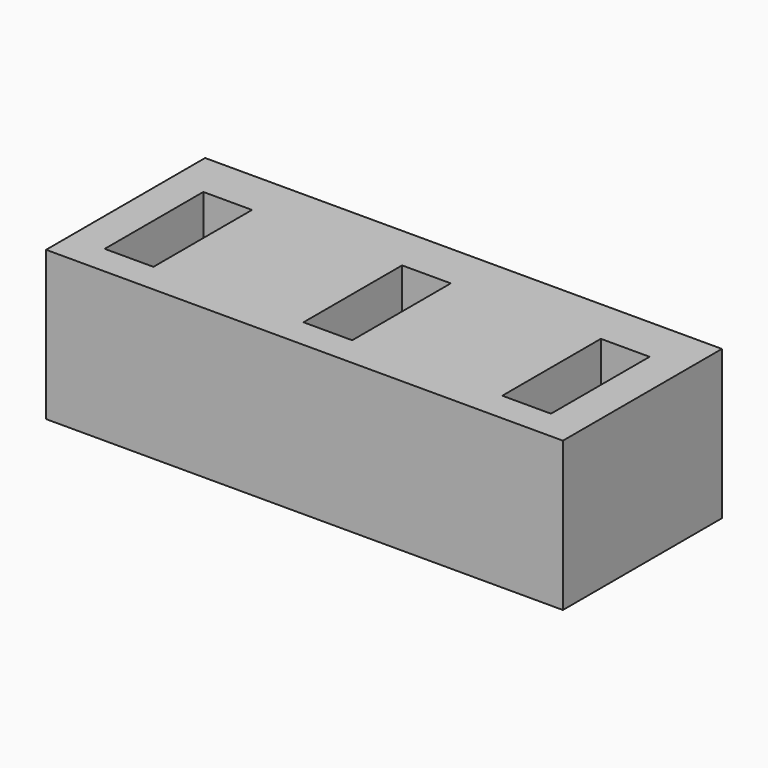
from build123d import *

# Parameters (mm, degrees)
BOX002_W     = 4.9
BOX002_H     = 12.4
BOX002_DEPTH = 16
BOX003_W     = 4.9
BOX003_H     = 12.4
BOX003_DEPTH = 16
BOX001_W     = 4.9
BOX001_H     = 12.4
BOX001_DEPTH = 16
BOX_W        = 52
BOX_H        = 20
BOX_DEPTH    = 15


with BuildPart() as cubo002:
    # Box002 → Box002 (new body)
    with BuildSketch(Plane(origin=(43.5, 3, 0), x_dir=(1, 0, 0), z_dir=(0, 0, 1))):
        with Locations((2.45, 6.2)):
            Rectangle(BOX002_W, BOX002_H)
    extrude(amount=BOX002_DEPTH)


with BuildPart() as cubo003:
    # Box003 → Box003 (new body)
    with BuildSketch(Plane(origin=(23.5, 3, 0), x_dir=(1, 0, 0), z_dir=(0, 0, 1))):
        with Locations((2.45, 6.2)):
            Rectangle(BOX003_W, BOX003_H)
    extrude(amount=BOX003_DEPTH)


with BuildPart() as cubo001:
    # Box001 → Box001 (new body)
    with BuildSketch(Plane(origin=(3.5, 3, 0), x_dir=(1, 0, 0), z_dir=(0, 0, 1))):
        with Locations((2.45, 6.2)):
            Rectangle(BOX001_W, BOX001_H)
    extrude(amount=BOX001_DEPTH)


with BuildPart() as cut002:
    # Box → Box (new body)
    with BuildSketch(Plane.XY):
        with Locations((26, 10)):
            Rectangle(BOX_W, BOX_H)
    extrude(amount=BOX_DEPTH)

    # Cut: cut Cubo001
    add(cubo001.part, mode=Mode.SUBTRACT)

    # Cut001: cut Cubo003
    add(cubo003.part, mode=Mode.SUBTRACT)

    # Cut002: cut Cubo002
    add(cubo002.part, mode=Mode.SUBTRACT)


solid = cut002.part
